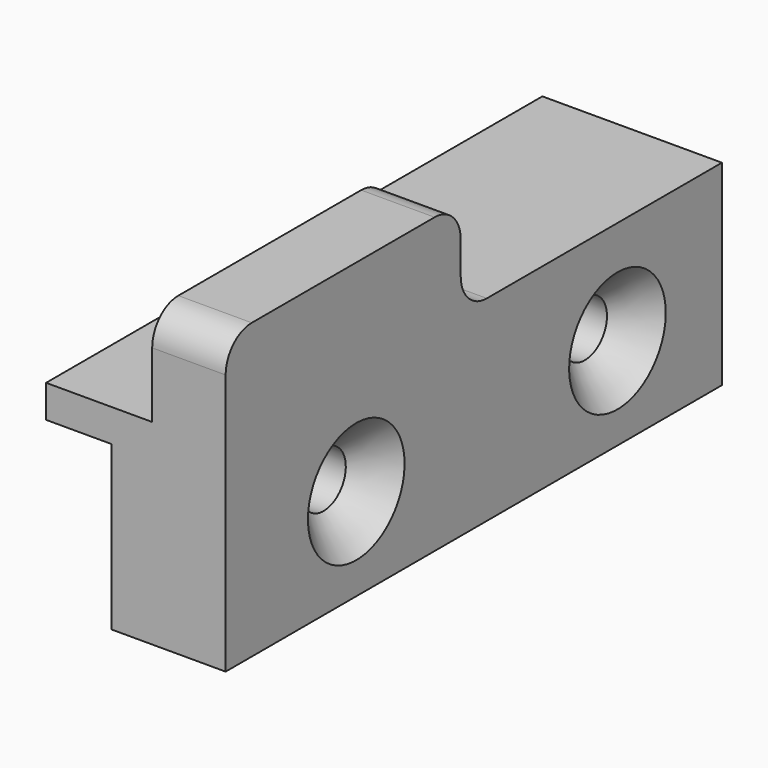
from build123d import *

# Parameters (mm, degrees)
PAD009_DEPTH    = 35
SKETCH016_R     = 1.7
POCKET005_DEPTH = 11.001
CHAMFER_SIZE    = 2
SKETCH017_W     = 12
SKETCH017_H     = 3
PAD010_DEPTH    = 11
SKETCH019_W     = 6
SKETCH019_H     = 18
PAD011_DEPTH    = 4.5
FILLET_R        = 2


with BuildPart() as part:
    # Sketch015 → Pad009 (new body)
    with BuildSketch(Plane.XZ):
        Polygon((-4, 0), (0, 0), (0, -10), (7, -10), (7, 2), (-4, 2), align=None)
    extrude(amount=PAD009_DEPTH)

    # Sketch016 (on Face4 of Pad009) → Pocket005 (cut, through all)
    with BuildSketch(Plane(origin=(7, 0, 0), x_dir=(0, 0, 1), z_dir=(1, 0, 0))):
        with Locations((-4.354385, 25)):
            Circle(SKETCH016_R)
        with Locations((-4.354385, 5)):
            Circle(SKETCH016_R)
    extrude(amount=-POCKET005_DEPTH, mode=Mode.SUBTRACT)

    # Chamfer
    chamfer_edges = [part.edges().sort_by_distance(p)[0] for p in [
        (7, -25, -6.054385),
        (7, -5, -6.054385),
    ]]
    chamfer(chamfer_edges, length=CHAMFER_SIZE)

    # Sketch017 (on Face4 of Chamfer) → Pad010 (join)
    with BuildSketch(Plane(origin=(7, 0, 0), x_dir=(0, 0, 1), z_dir=(1, 0, 0))):
        with Locations((-4, -1.5)):
            Rectangle(SKETCH017_W, SKETCH017_H)
    extrude(amount=-PAD010_DEPTH)

    # Sketch019 (on Face4 of Pad010) → Pad011 (join)
    with BuildSketch(Plane(origin=(7, 0, 0), x_dir=(0, 0, 1), z_dir=(1, 0, 0))):
        with Locations((5, 26)):
            Rectangle(SKETCH019_W, SKETCH019_H)
    extrude(amount=-PAD011_DEPTH)

    # Fillet
    fillet_edges = [part.edges().sort_by_distance(p)[0] for p in [
        (4.75, -17, 2),
        (4.75, -17, 8),
        (4.75, -35, 8),
    ]]
    fillet(fillet_edges, radius=FILLET_R)


solid = part.part
